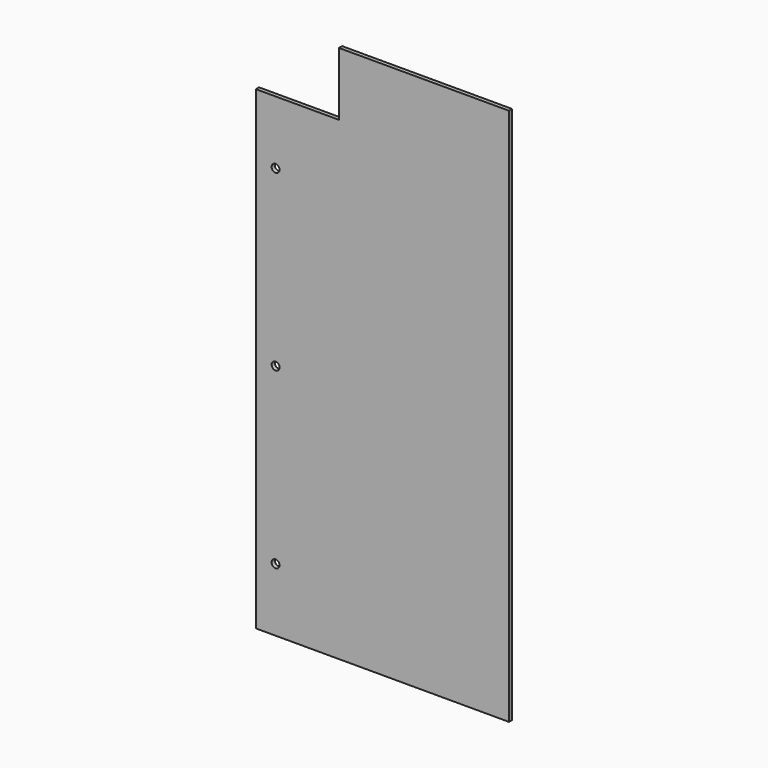
from build123d import *

# Parameters (mm, degrees)
F1_DEPTH = 3.175
F3_D     = 6.35
F4_D     = 6.35


with BuildPart() as f1:
    # F0 (on Front) → F1 (new body)
    with BuildSketch(Plane.XZ):
        Polygon((-157.175134, 323.548309), (-157.175134, -57.451691), (46.024866, -57.451691), (46.024866, 374.348309), (-90.500134, 374.348309), (-90.500134, 323.548309), align=None)
    extrude(amount=F1_DEPTH)

    # F3 (through all)
    with Locations(Plane.XZ.offset(3.175)):
        with Locations((-141.300134, -6.651691)):
            Hole(F3_D / 2)

    # F4 (through all)
    with Locations(Plane.XZ.offset(3.175)):
        with Locations((-141.300134, 133.048309), (-141.300134, 272.748309)):
            Hole(F4_D / 2)


solid = f1.part
